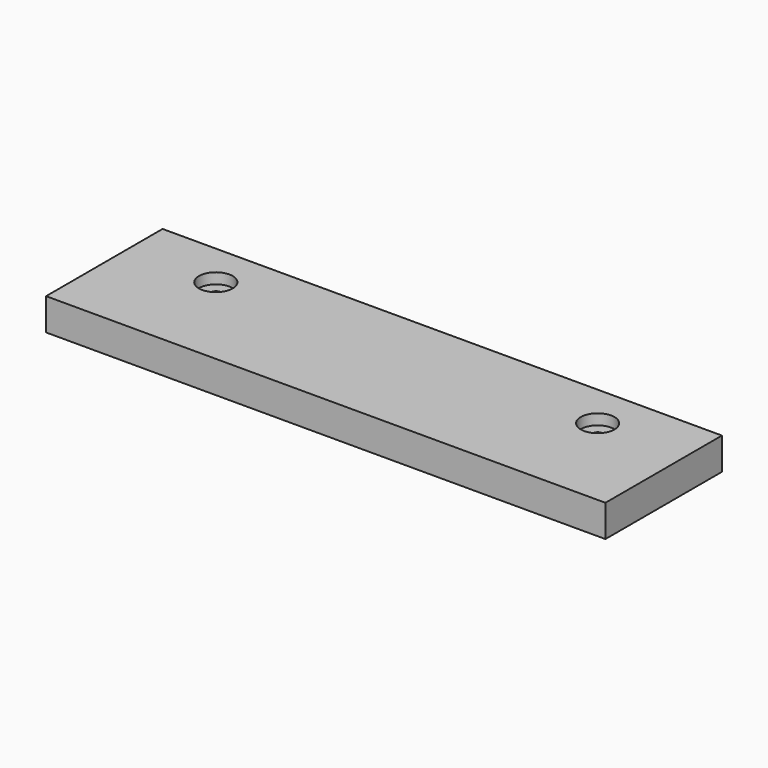
from build123d import *

# Parameters (mm, degrees)
SKETCH002_W  = 315
SKETCH002_H  = 82
SKETCH002_R  = 3
PAD002_DEPTH = 18
SKETCH003_R  = 9.5
POCKET_DEPTH = 6


with BuildPart() as part:
    # Sketch002 → Pad002 (new body)
    with BuildSketch(Plane.XY):
        with Locations((0, 41)):
            Rectangle(SKETCH002_W, SKETCH002_H)
        with Locations((-107.5, 57)):
            Circle(SKETCH002_R, mode=Mode.SUBTRACT)
        with Locations((107.5, 57)):
            Circle(SKETCH002_R, mode=Mode.SUBTRACT)
    extrude(amount=PAD002_DEPTH)

    # Sketch003 (on Face8 of Pad002) → Pocket (cut)
    with BuildSketch(Plane.XY.offset(18)):
        with Locations((-107.5, 57)):
            Circle(SKETCH003_R)
    pocket = extrude(amount=-POCKET_DEPTH, mode=Mode.SUBTRACT)

    # Mirrored: Pocket across Sketch003 V_Axis
    add(pocket.mirror(Plane(origin=(0, 0, 18), x_dir=(0, 0, 1), z_dir=(1, 0, 0))), mode=Mode.SUBTRACT)


with BuildPart() as part_1:
    # Clone placement: moved
    add(part.part.moved(Location((187.5, 10, -18))))


solid = part_1.part
